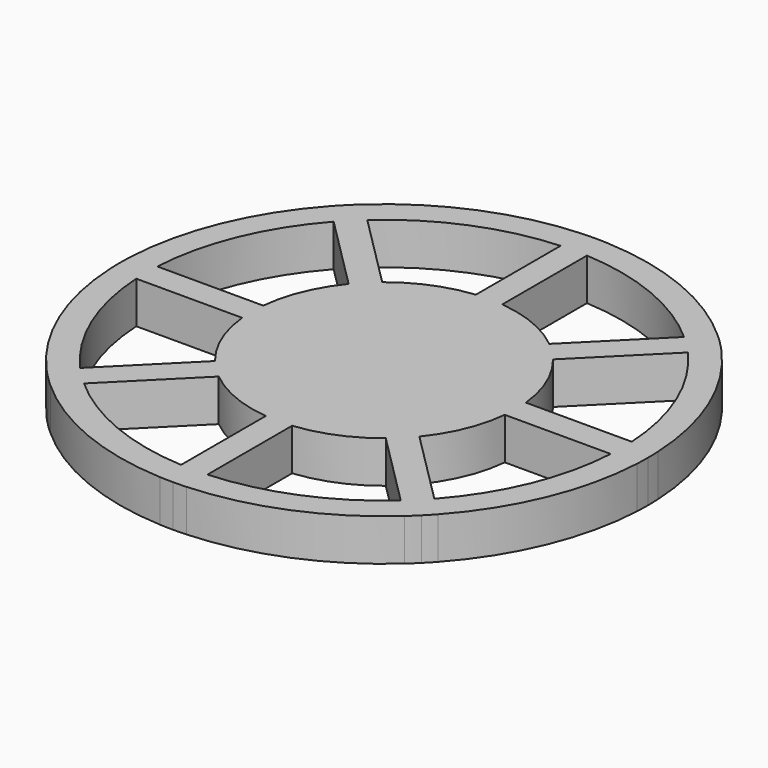
from build123d import *

# Parameters (mm, degrees)
F1_DEPTH = 6.35


with BuildPart() as f1:
    # F0 (on Top) → F1 (new body)
    with BuildSketch(Plane.XY):
        with BuildLine():
            Line((24.0856498252, 26.8307436167), (26.9180135546, 29.663107346))
            ThreePointArc((26.9180135546, 29.663107346), (15.3906706279, 36.9551813005), (2.0833333333, 39.9499687109))
            Line((2.0833333333, 39.9499687109), (2.0833333333, 35.9444015112))
            ThreePointArc((2.0833333333, 35.9444015112), (13.8599368985, 33.2596631704), (24.0856498252, 26.8307436167))
        make_face()
        with BuildLine():
            Line((2.0833333333, 35.9444015112), (2.0833333333, 39.9499687109))
            ThreePointArc((2.0833333333, 39.9499687109), (1.0836461756, 39.9874902215), (0.0833333333, 40))
            ThreePointArc((0.0833333333, 40), (-0.916979509, 39.9874902215), (-1.9166666667, 39.9499687109))
            Line((-1.9166666667, 39.9499687109), (-1.9166666667, 35.9444015112))
            ThreePointArc((-1.9166666667, 35.9444015112), (0.0833333333, 36), (2.0833333333, 35.9444015112))
        make_face()
        with BuildLine():
            ThreePointArc((-23.9189831586, 26.8307436167), (-13.6932702318, 33.2596631704), (-1.9166666667, 35.9444015112))
            Line((-1.9166666667, 35.9444015112), (-1.9166666667, 39.9499687109))
            ThreePointArc((-1.9166666667, 39.9499687109), (-15.2240039613, 36.9551813005), (-26.7513468879, 29.663107346))
            Line((-26.7513468879, 29.663107346), (-23.9189831586, 26.8307436167))
        make_face()
        with BuildLine():
            ThreePointArc((-26.7474102833, 24.0023164919), (-25.3725107894, 25.4558441227), (-23.9189831586, 26.8307436167))
            Line((-23.9189831586, 26.8307436167), (-26.7513468879, 29.663107346))
            ThreePointArc((-26.7513468879, 29.663107346), (-27.4847641715, 28.9827534917), (-28.2009379154, 28.2842712462))
            ThreePointArc((-28.2009379154, 28.2842712462), (-28.8994201597, 27.5680975035), (-29.5797740127, 26.8346802213))
            Line((-29.5797740127, 26.8346802213), (-26.7474102833, 24.0023164919))
        make_face()
        with BuildLine():
            ThreePointArc((-35.8610681779, 2), (-33.1763298371, 13.7766035651), (-26.7474102833, 24.0023164919))
            Line((-26.7474102833, 24.0023164919), (-29.5797740127, 26.8346802213))
            ThreePointArc((-29.5797740127, 26.8346802213), (-36.8718479671, 15.3073372946), (-39.8666353775, 2))
            Line((-39.8666353775, 2), (-35.8610681779, 2))
        make_face()
        with BuildLine():
            ThreePointArc((-35.8610681779, -2), (-35.9166666667, 0), (-35.8610681779, 2))
            Line((-35.8610681779, 2), (-39.8666353775, 2))
            ThreePointArc((-39.8666353775, 2), (-39.9041568884, 1.000312836), (-39.9166666667, -1.26e-08))
            ThreePointArc((-39.9166666667, -1.26e-08), (-39.904156888, -1.0003128486), (-39.8666353775, -2))
            Line((-39.8666353775, -2), (-35.8610681779, -2))
        make_face()
        with BuildLine():
            Line((-29.5797740127, -26.8346802213), (-26.7474102833, -24.0023164919))
            ThreePointArc((-26.7474102833, -24.0023164919), (-33.1763298371, -13.7766035651), (-35.8610681779, -2))
            Line((-35.8610681779, -2), (-39.8666353775, -2))
            ThreePointArc((-39.8666353775, -2), (-36.8718479671, -15.3073372946), (-29.5797740127, -26.8346802213))
        make_face()
        with BuildLine():
            Line((-26.7513468879, -29.663107346), (-23.9189831586, -26.8307436167))
            ThreePointArc((-23.9189831586, -26.8307436167), (-25.3725107894, -25.4558441227), (-26.7474102833, -24.0023164919))
            Line((-26.7474102833, -24.0023164919), (-29.5797740127, -26.8346802213))
            ThreePointArc((-29.5797740127, -26.8346802213), (-28.899420159, -27.5680975042), (-28.2009379141, -28.2842712475))
            ThreePointArc((-28.2009379141, -28.2842712475), (-27.4847641708, -28.9827534924), (-26.7513468879, -29.663107346))
        make_face()
        with BuildLine():
            Line((-1.9166666667, -39.9499687109), (-1.9166666667, -35.9444015112))
            ThreePointArc((-1.9166666667, -35.9444015112), (-13.6932702318, -33.2596631704), (-23.9189831586, -26.8307436167))
            Line((-23.9189831586, -26.8307436167), (-26.7513468879, -29.663107346))
            ThreePointArc((-26.7513468879, -29.663107346), (-15.2240039613, -36.9551813005), (-1.9166666667, -39.9499687109))
        make_face()
        with BuildLine():
            ThreePointArc((0.0833333333, -40), (1.0836461756, -39.9874902215), (2.0833333333, -39.9499687109))
            Line((2.0833333333, -39.9499687109), (2.0833333333, -35.9444015112))
            ThreePointArc((2.0833333333, -35.9444015112), (0.0833333333, -36), (-1.9166666667, -35.9444015112))
            Line((-1.9166666667, -35.9444015112), (-1.9166666667, -39.9499687109))
            ThreePointArc((-1.9166666667, -39.9499687109), (-0.916979509, -39.9874902215), (0.0833333333, -40))
        make_face()
        with BuildLine():
            ThreePointArc((2.0833333333, -39.9499687109), (15.3906706279, -36.9551813005), (26.9180135546, -29.663107346))
            Line((26.9180135546, -29.663107346), (24.0856498252, -26.8307436167))
            ThreePointArc((24.0856498252, -26.8307436167), (13.8599368985, -33.2596631704), (2.0833333333, -35.9444015112))
            Line((2.0833333333, -35.9444015112), (2.0833333333, -39.9499687109))
        make_face()
        with BuildLine():
            ThreePointArc((28.3676046423, -28.2842711859), (29.0660868557, -27.5680974727), (29.7464406794, -26.8346802213))
            Line((29.7464406794, -26.8346802213), (26.91407695, -24.0023164919))
            ThreePointArc((26.91407695, -24.0023164919), (25.539177456, -25.4558441227), (24.0856498252, -26.8307436167))
            Line((24.0856498252, -26.8307436167), (26.9180135546, -29.663107346))
            ThreePointArc((26.9180135546, -29.663107346), (27.651430869, -28.9827534624), (28.3676046423, -28.2842711859))
        make_face()
        with BuildLine():
            ThreePointArc((29.7464406794, -26.8346802213), (37.0385146338, -15.3073372946), (40.0333020442, -2))
            Line((40.0333020442, -2), (36.0277348446, -2))
            ThreePointArc((36.0277348446, -2), (33.3429965037, -13.7766035651), (26.91407695, -24.0023164919))
            Line((26.91407695, -24.0023164919), (29.7464406794, -26.8346802213))
        make_face()
        with BuildLine():
            ThreePointArc((40.0333020442, -2), (40.0708235549, -1.0003128423), (40.0833333333, 0))
            ThreePointArc((40.0833333333, 0), (40.0708235549, 1.0003128423), (40.0333020442, 2))
            Line((40.0333020442, 2), (36.0277348446, 2))
            ThreePointArc((36.0277348446, 2), (36.0694310268, 1.0003863244), (36.0833333333, 0))
            ThreePointArc((36.0833333333, 0), (36.0694310268, -1.0003863244), (36.0277348446, -2))
            Line((36.0277348446, -2), (40.0333020442, -2))
        make_face()
        with BuildLine():
            Line((36.0277348446, 2), (40.0333020442, 2))
            ThreePointArc((40.0333020442, 2), (37.0385146338, 15.3073372946), (29.7464406794, 26.8346802213))
            Line((29.7464406794, 26.8346802213), (26.91407695, 24.0023164919))
            ThreePointArc((26.91407695, 24.0023164919), (33.3429965037, 13.7766035651), (36.0277348446, 2))
        make_face()
        with BuildLine():
            Line((26.91407695, 24.0023164919), (29.7464406794, 26.8346802213))
            ThreePointArc((29.7464406794, 26.8346802213), (29.0660868257, 27.5680975042), (28.3676045808, 28.2842712475))
            ThreePointArc((28.3676045808, 28.2842712475), (27.6514308375, 28.9827534924), (26.9180135546, 29.663107346))
            Line((26.9180135546, 29.663107346), (24.0856498252, 26.8307436167))
            ThreePointArc((24.0856498252, 26.8307436167), (25.539177456, 25.4558441227), (26.91407695, 24.0023164919))
        make_face()
        with BuildLine():
            Line((15.5687941752, 12.6570337171), (26.91407695, 24.0023164919))
            ThreePointArc((26.91407695, 24.0023164919), (25.539177456, 25.4558441227), (24.0856498252, 26.8307436167))
            Line((24.0856498252, 26.8307436167), (12.7403670504, 15.4854608418))
            ThreePointArc((12.7403670504, 15.4854608418), (14.2254689571, 14.1421356237), (15.5687941752, 12.6570337171))
        make_face()
        with BuildLine():
            ThreePointArc((36.0833333333, 0), (36.0694310268, 1.0003863244), (36.0277348446, 2))
            Line((36.0277348446, 2), (19.9830820755, 2))
            ThreePointArc((19.9830820755, 2), (20.0582547955, 1.0012555012), (20.0833333333, 0))
            ThreePointArc((20.0833333333, 0), (20.0582547955, -1.0012555012), (19.9830820755, -2))
            Line((19.9830820755, -2), (36.0277348446, -2))
            ThreePointArc((36.0277348446, -2), (36.0694310268, -1.0003863244), (36.0833333333, 0))
        make_face()
        with BuildLine():
            ThreePointArc((24.0856498252, -26.8307436167), (25.539177456, -25.4558441227), (26.91407695, -24.0023164919))
            Line((26.91407695, -24.0023164919), (15.5687941752, -12.6570337171))
            ThreePointArc((15.5687941752, -12.6570337171), (14.2254689571, -14.1421356237), (12.7403670504, -15.4854608418))
            Line((12.7403670504, -15.4854608418), (24.0856498252, -26.8307436167))
        make_face()
        with BuildLine():
            ThreePointArc((-1.9166666667, -35.9444015112), (0.0833333333, -36), (2.0833333333, -35.9444015112))
            Line((2.0833333333, -35.9444015112), (2.0833333333, -19.8997487421))
            ThreePointArc((2.0833333333, -19.8997487421), (0.0833333333, -20), (-1.9166666667, -19.8997487421))
            Line((-1.9166666667, -19.8997487421), (-1.9166666667, -35.9444015112))
        make_face()
        with BuildLine():
            ThreePointArc((-26.7474102833, -24.0023164919), (-25.3725107894, -25.4558441227), (-23.9189831586, -26.8307436167))
            Line((-23.9189831586, -26.8307436167), (-12.5737003838, -15.4854608418))
            ThreePointArc((-12.5737003838, -15.4854608418), (-14.0588022904, -14.1421356237), (-15.4021275085, -12.6570337171))
            Line((-15.4021275085, -12.6570337171), (-26.7474102833, -24.0023164919))
        make_face()
        with BuildLine():
            Line((-19.8164154088, 2), (-35.8610681779, 2))
            ThreePointArc((-35.8610681779, 2), (-35.9166666667, 0), (-35.8610681779, -2))
            Line((-35.8610681779, -2), (-19.8164154088, -2))
            ThreePointArc((-19.8164154088, -2), (-19.9166666667, 0), (-19.8164154088, 2))
        make_face()
        with BuildLine():
            Line((-12.5737003838, 15.4854608418), (-23.9189831586, 26.8307436167))
            ThreePointArc((-23.9189831586, 26.8307436167), (-25.3725107894, 25.4558441227), (-26.7474102833, 24.0023164919))
            Line((-26.7474102833, 24.0023164919), (-15.4021275085, 12.6570337171))
            ThreePointArc((-15.4021275085, 12.6570337171), (-14.0588022904, 14.1421356237), (-12.5737003838, 15.4854608418))
        make_face()
        with BuildLine():
            Line((2.0833333333, 19.8997487421), (2.0833333333, 35.9444015112))
            ThreePointArc((2.0833333333, 35.9444015112), (0.0833333333, 36), (-1.9166666667, 35.9444015112))
            Line((-1.9166666667, 35.9444015112), (-1.9166666667, 19.8997487421))
            ThreePointArc((-1.9166666667, 19.8997487421), (0.0833333333, 20), (2.0833333333, 19.8997487421))
        make_face()
        with BuildLine():
            Line((2.0833333333, 4.8284271247), (2.0833333333, 19.8997487421))
            ThreePointArc((2.0833333333, 19.8997487421), (0.0833333333, 20), (-1.9166666667, 19.8997487421))
            Line((-1.9166666667, 19.8997487421), (-1.9166666667, 4.8284271247))
            Line((-1.9166666667, 4.8284271247), (0.0833333333, 2.8284271247))
            Line((0.0833333333, 2.8284271247), (2.0833333333, 4.8284271247))
        make_face()
        with BuildLine():
            Line((2.0833333333, 4.8284271247), (12.7403670504, 15.4854608418))
            ThreePointArc((12.7403670504, 15.4854608418), (7.7370019806, 18.4775906502), (2.0833333333, 19.8997487421))
            Line((2.0833333333, 19.8997487421), (2.0833333333, 4.8284271247))
        make_face()
        with BuildLine():
            Line((4.9117604581, 2), (15.5687941752, 12.6570337171))
            ThreePointArc((15.5687941752, 12.6570337171), (14.2254689571, 14.1421356237), (12.7403670504, 15.4854608418))
            Line((12.7403670504, 15.4854608418), (2.0833333333, 4.8284271247))
            Line((2.0833333333, 4.8284271247), (2.0833333333, 2))
            Line((2.0833333333, 2), (4.9117604581, 2))
        make_face()
        with BuildLine():
            ThreePointArc((20.0833333333, 0), (20.0582547955, 1.0012555012), (19.9830820755, 2))
            Line((19.9830820755, 2), (4.9117604581, 2))
            Line((4.9117604581, 2), (2.9117604581, 0))
            Line((2.9117604581, 0), (4.9117604581, -2))
            Line((4.9117604581, -2), (19.9830820755, -2))
            ThreePointArc((19.9830820755, -2), (20.0582547955, -1.0012555012), (20.0833333333, 0))
        make_face()
        with BuildLine():
            Line((4.9117604581, 2), (19.9830820755, 2))
            ThreePointArc((19.9830820755, 2), (18.5609239836, 7.6536686473), (15.5687941752, 12.6570337171))
            Line((15.5687941752, 12.6570337171), (4.9117604581, 2))
        make_face()
        with BuildLine():
            ThreePointArc((15.5687941752, -12.6570337171), (18.5609239836, -7.6536686473), (19.9830820755, -2))
            Line((19.9830820755, -2), (4.9117604581, -2))
            Line((4.9117604581, -2), (15.5687941752, -12.6570337171))
        make_face()
        with BuildLine():
            ThreePointArc((12.7403670504, -15.4854608418), (14.2254689571, -14.1421356237), (15.5687941752, -12.6570337171))
            Line((15.5687941752, -12.6570337171), (4.9117604581, -2))
            Line((4.9117604581, -2), (2.0833333333, -2))
            Line((2.0833333333, -2), (2.0833333333, -4.8284271247))
            Line((2.0833333333, -4.8284271247), (12.7403670504, -15.4854608418))
        make_face()
        with BuildLine():
            ThreePointArc((2.0833333333, -19.8997487421), (7.7370019806, -18.4775906502), (12.7403670504, -15.4854608418))
            Line((12.7403670504, -15.4854608418), (2.0833333333, -4.8284271247))
            Line((2.0833333333, -4.8284271247), (2.0833333333, -19.8997487421))
        make_face()
        with BuildLine():
            ThreePointArc((-1.9166666667, -19.8997487421), (0.0833333333, -20), (2.0833333333, -19.8997487421))
            Line((2.0833333333, -19.8997487421), (2.0833333333, -4.8284271247))
            Line((2.0833333333, -4.8284271247), (0.0833333333, -2.8284271247))
            Line((0.0833333333, -2.8284271247), (-1.9166666667, -4.8284271247))
            Line((-1.9166666667, -4.8284271247), (-1.9166666667, -19.8997487421))
        make_face()
        with BuildLine():
            ThreePointArc((-12.5737003838, -15.4854608418), (-7.570335314, -18.4775906502), (-1.9166666667, -19.8997487421))
            Line((-1.9166666667, -19.8997487421), (-1.9166666667, -4.8284271247))
            Line((-1.9166666667, -4.8284271247), (-12.5737003838, -15.4854608418))
        make_face()
        with BuildLine():
            ThreePointArc((-15.4021275085, -12.6570337171), (-14.0588022904, -14.1421356237), (-12.5737003838, -15.4854608418))
            Line((-12.5737003838, -15.4854608418), (-1.9166666667, -4.8284271247))
            Line((-1.9166666667, -4.8284271247), (-1.9166666667, -2))
            Line((-1.9166666667, -2), (-4.7450937914, -2))
            Line((-4.7450937914, -2), (-15.4021275085, -12.6570337171))
        make_face()
        with BuildLine():
            ThreePointArc((-19.8164154088, -2), (-18.3942573169, -7.6536686473), (-15.4021275085, -12.6570337171))
            Line((-15.4021275085, -12.6570337171), (-4.7450937914, -2))
            Line((-4.7450937914, -2), (-19.8164154088, -2))
        make_face()
        with BuildLine():
            Line((-2.7450937914, 0), (-4.7450937914, 2))
            Line((-4.7450937914, 2), (-19.8164154088, 2))
            ThreePointArc((-19.8164154088, 2), (-19.9166666667, 0), (-19.8164154088, -2))
            Line((-19.8164154088, -2), (-4.7450937914, -2))
            Line((-4.7450937914, -2), (-2.7450937914, 0))
        make_face()
        with BuildLine():
            Line((-4.7450937914, 2), (-15.4021275085, 12.6570337171))
            ThreePointArc((-15.4021275085, 12.6570337171), (-18.3942573169, 7.6536686473), (-19.8164154088, 2))
            Line((-19.8164154088, 2), (-4.7450937914, 2))
        make_face()
        with BuildLine():
            Line((-1.9166666667, 4.8284271247), (-12.5737003838, 15.4854608418))
            ThreePointArc((-12.5737003838, 15.4854608418), (-14.0588022904, 14.1421356237), (-15.4021275085, 12.6570337171))
            Line((-15.4021275085, 12.6570337171), (-4.7450937914, 2))
            Line((-4.7450937914, 2), (-1.9166666667, 2))
            Line((-1.9166666667, 2), (-1.9166666667, 4.8284271247))
        make_face()
        with BuildLine():
            Line((-1.9166666667, 4.8284271247), (-1.9166666667, 19.8997487421))
            ThreePointArc((-1.9166666667, 19.8997487421), (-7.570335314, 18.4775906502), (-12.5737003838, 15.4854608418))
            Line((-12.5737003838, 15.4854608418), (-1.9166666667, 4.8284271247))
        make_face()
        Polygon((2.9117604581, 0), (4.9117604581, 2), (2.0833333333, 2), (2.0833333333, 0.8284271247), align=None)
        Polygon((2.0833333333, -2), (4.9117604581, -2), (2.9117604581, 0), (2.0833333333, -0.8284271247), align=None)
        Polygon((2.0833333333, -4.8284271247), (2.0833333333, -2), (0.9117604581, -2), (0.0833333333, -2.8284271247), align=None)
        Polygon((-1.9166666667, -4.8284271247), (0.0833333333, -2.8284271247), (-0.7450937914, -2), (-1.9166666667, -2), align=None)
        Polygon((-1.9166666667, 0.8284271247), (-1.9166666667, 2), (-4.7450937914, 2), (-2.7450937914, 0), align=None)
        Polygon((0.9117604581, 2), (2.0833333333, 2), (2.0833333333, 4.8284271247), (0.0833333333, 2.8284271247), align=None)
        Polygon((2.0833333333, -0.8284271247), (2.9117604581, 0), (2.0833333333, 0.8284271247), align=None)
        Polygon((0.9117604581, -2), (2.0833333333, -2), (2.0833333333, -0.8284271247), align=None)
        Polygon((0.0833333333, -2.8284271247), (0.9117604581, -2), (-0.7450937914, -2), align=None)
        Polygon((-1.9166666667, -0.8284271247), (-1.9166666667, 0.8284271247), (-2.7450937914, 0), align=None)
        Polygon((-1.9166666667, 0.8284271247), (-0.7450937914, 2), (-1.9166666667, 2), align=None)
        Polygon((-0.7450937914, 2), (0.0833333333, 2.8284271247), (-1.9166666667, 4.8284271247), (-1.9166666667, 2), align=None)
        Polygon((-0.7450937914, 2), (0.9117604581, 2), (0.0833333333, 2.8284271247), align=None)
        Polygon((-4.7450937914, -2), (-1.9166666667, -2), (-1.9166666667, -0.8284271247), (-2.7450937914, 0), align=None)
        Polygon((2.0833333333, -0.8284271247), (2.0833333333, 0.8284271247), (0.9117604581, 2), (-0.7450937914, 2), (-1.9166666667, 0.8284271247), (-1.9166666667, -0.8284271247), (-0.7450937914, -2), (0.9117604581, -2), align=None)
        Polygon((-1.9166666667, -2), (-0.7450937914, -2), (-1.9166666667, -0.8284271247), align=None)
        Polygon((2.0833333333, 0.8284271247), (2.0833333333, 2), (0.9117604581, 2), align=None)
    extrude(amount=F1_DEPTH)


solid = f1.part
